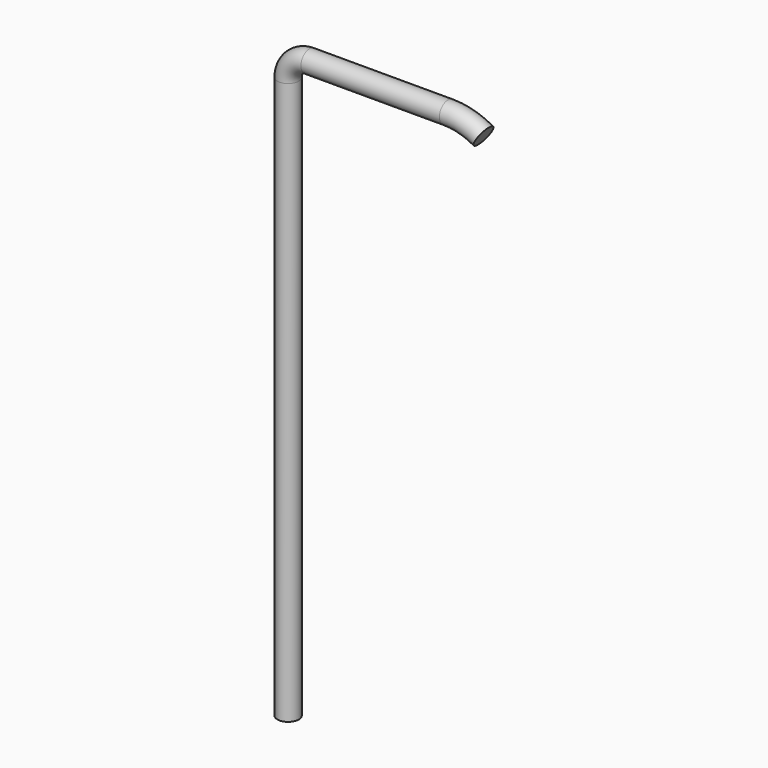
from build123d import *

# Parameters (mm, degrees)
F1_R = 15


with BuildPart() as f2:
    # F2: sweep along a path in F0
    with BuildLine(Plane.XZ) as f2_path:
        Line((0, 0), (0, 790))
        ThreePointArc((0, 790), (8.786797, 811.213203), (30, 820))
        Line((30, 820), (224.652569, 820))
        ThreePointArc((224.652569, 820), (250.534473, 816.592583), (274.652569, 806.60254))
    # F1 (on Top) → F2 (sweep)
    with BuildSketch(Plane.XY):
        Circle(F1_R)
    sweep(path=f2_path.line)


solid = f2.part
